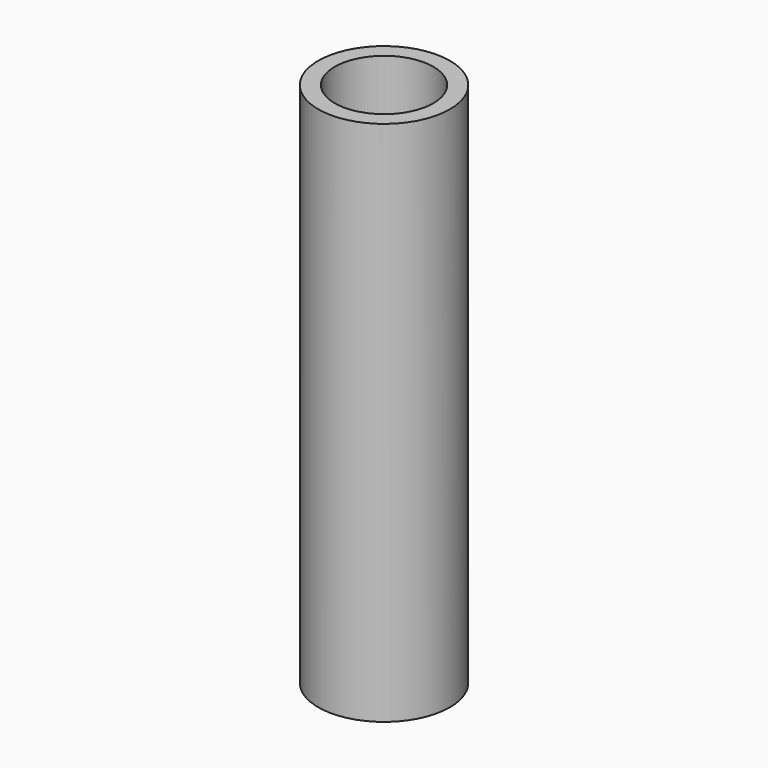
from build123d import *

# Parameters (mm, degrees)
F0_R     = 25.4
F1_DEPTH = 101.6
F2_T     = -6.35


with BuildPart() as f1:
    # F0 (on Top) → F1 (new body, symmetric)
    with BuildSketch(Plane.XY):
        Circle(F0_R)
    extrude(amount=F1_DEPTH, both=True)

    # F2
    f2_openings = [f1.faces().sort_by_distance(p)[0] for p in [
        (0, 0, 101.6),
        (0, 0, -101.6),
    ]]
    offset(amount=F2_T, openings=f2_openings)


solid = f1.part
